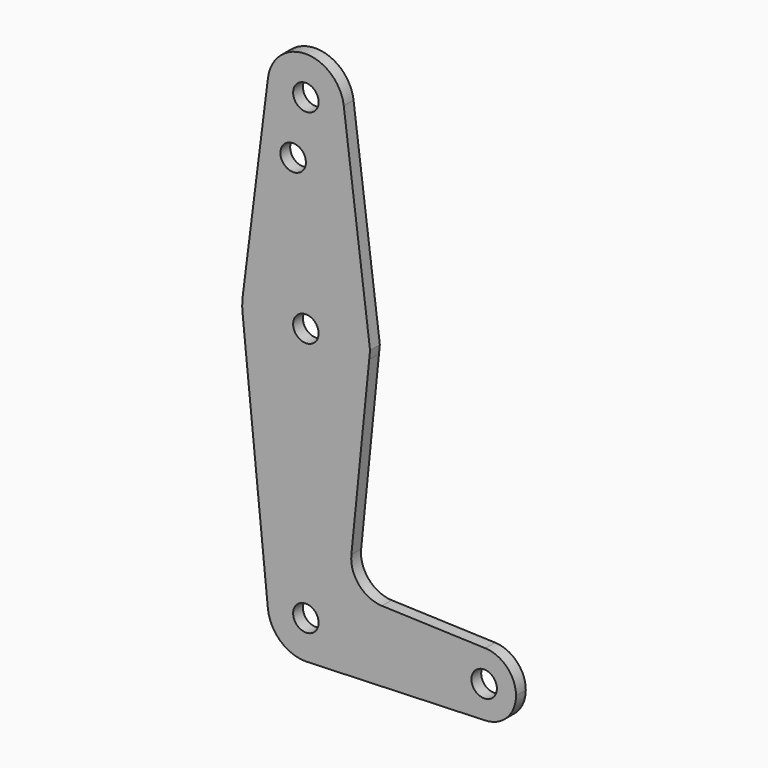
from build123d import *

# Parameters (mm, degrees)
F0_R     = 3.175
F1_DEPTH = 3.048


with BuildPart() as f1:
    # F0 (on Front) → F1 (new body)
    with BuildSketch(Plane.XZ):
        with BuildLine():
            Line((11.340836, 17.589892), (15.795426, 61.9125))
            ThreePointArc((15.795426, 61.9125), (0, 47.625), (-15.795426, 61.912499))
            Line((-15.795426, 61.912499), (-9.477255, -0.9525))
            ThreePointArc((-9.477255, -0.9525), (-0.476848, 9.513056), (9.525, 0))
            ThreePointArc((9.525, 0), (6.970557, -6.491299), (0.677344, -9.500886))
            Line((0.677344, -9.500886), (44.732405, -7.932475))
            ThreePointArc((44.732405, -7.932475), (36.5125, 0), (44.732405, 7.932475))
            Line((44.732405, 7.932475), (18.968328, 8.849706))
            ThreePointArc((18.968328, 8.849706), (13.261204, 11.567463), (11.340836, 17.589892))
        make_face()
        with BuildLine():
            ThreePointArc((9.448874, 115.501837), (9.505949, 114.902123), (9.525, 114.3))
            ThreePointArc((9.525, 114.3), (-0.596483, 104.793695), (-9.450293, 115.490625))
            Line((-9.450293, 115.490625), (-15.750488, 65.484375))
            ThreePointArc((-15.750488, 65.484375), (0.994139, 79.343841), (15.875, 63.5))
            ThreePointArc((15.875, 63.5), (15.855094, 62.705253), (15.795426, 61.9125))
            Line((15.795426, 61.9125), (16.002735, 63.975199))
            Line((16.002735, 63.975199), (9.448874, 115.501837))
        make_face()
        with Locations((-3.175, 100.0252)):
            Circle(F0_R, mode=Mode.SUBTRACT)
        with BuildLine():
            ThreePointArc((15.875, 63.5), (0.994139, 79.343841), (-15.750488, 65.484375))
            ThreePointArc((-15.750488, 65.484375), (-15.873744, 63.699705), (-15.795426, 61.912499))
            ThreePointArc((-15.795426, 61.912499), (0, 47.625), (15.795426, 61.9125))
            ThreePointArc((15.795426, 61.9125), (15.855094, 62.705253), (15.875, 63.5))
        make_face()
        with Locations((0, 63.5)):
            Circle(F0_R, mode=Mode.SUBTRACT)
        with BuildLine():
            ThreePointArc((-9.450293, 115.490625), (-0.596483, 104.793695), (9.525, 114.3))
            ThreePointArc((9.525, 114.3), (9.505949, 114.902123), (9.448874, 115.501837))
            ThreePointArc((9.448874, 115.501837), (-0.005651, 123.824998), (-9.450293, 115.490625))
        make_face()
        with Locations((0, 114.3)):
            Circle(F0_R, mode=Mode.SUBTRACT)
        with BuildLine():
            ThreePointArc((9.525, 0), (-0.476848, 9.513056), (-9.477255, -0.9525))
            ThreePointArc((-9.477255, -0.9525), (-6.389564, -7.063929), (0, -9.525))
            Line((0, -9.525), (0.677344, -9.500886))
            ThreePointArc((0.677344, -9.500886), (6.970557, -6.491299), (9.525, 0))
        make_face()
        Circle(F0_R, mode=Mode.SUBTRACT)
        with BuildLine():
            ThreePointArc((52.3875, 0), (50.161633, 5.51191), (44.732405, 7.932475))
            ThreePointArc((44.732405, 7.932475), (36.5125, 0), (44.732405, -7.932475))
            ThreePointArc((44.732405, -7.932475), (50.161633, -5.51191), (52.3875, 0))
        make_face()
        with Locations((44.45, 0)):
            Circle(F0_R, mode=Mode.SUBTRACT)
    extrude(amount=F1_DEPTH)


solid = f1.part
